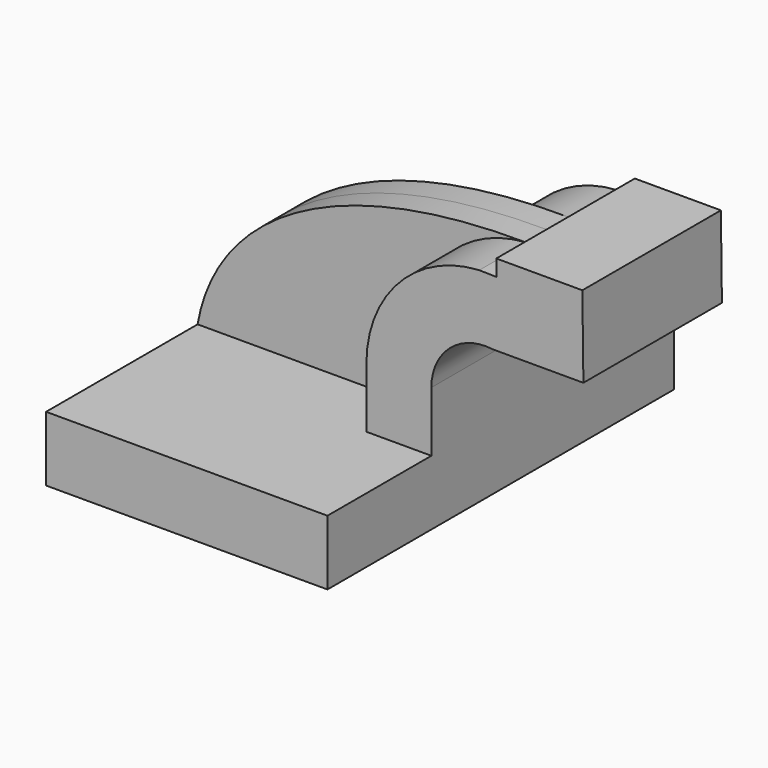
from build123d import *

# Parameters (mm, degrees)
F1_DEPTH = 63.5
F2_DEPTH = 25.4
F3_DEPTH = 7.9375


with BuildPart() as f1:
    # F0 (on Front) → F1 (new body, symmetric)
    with BuildSketch(Plane.XZ):
        Polygon((-41.275, 9.525), (-41.275, -9.525), (41.275, -9.525), (41.275, 9.525), (22.225, 9.525), align=None)
    extrude(amount=F1_DEPTH, both=True)

    # F0 (on Front) → F2 (join, symmetric)
    with BuildSketch(Plane.XZ):
        with BuildLine():
            Line((22.225, 9.525), (41.275, 9.525))
            Line((41.275, 9.525), (41.275, 27.144268))
            ThreePointArc((41.275, 27.144268), (46.70633, 39.100244), (59.283867, 42.8752))
            Line((59.283867, 42.8752), (60.325, 42.8752))
            Line((60.325, 42.8752), (60.325, 61.9252))
            Line((60.325, 61.9252), (60.318968, 61.9252))
            add(Edge.make_bspline(
                [(60.318968, 61.9252), (58.637809, 61.975807), (56.975817, 62.007969), (55.33311, 62.021976)],
                knots=[0, 0, 0, 0, 3.185994, 3.185994, 3.185994, 3.185994], degree=3))
            ThreePointArc((55.33311, 62.021976), (31.820072, 51.189025), (22.225, 27.144268))
            Line((22.225, 27.144268), (22.225, 9.525))
        make_face()
        Polygon((60.325, 66.675), (60.325, 61.9252), (60.325, 42.8752), (85.883424, 42.8752), (85.578844, 66.675), align=None)
    extrude(amount=F2_DEPTH, both=True)

    # F0 (on Front) → F3 (join, symmetric)
    with BuildSketch(Plane.XZ):
        with BuildLine():
            add(Edge.make_bspline(
                [(55.33311, 62.021976), (-1.963501, 62.510512), (-35.799797, 40.911554), (-41.275, 9.525)],
                knots=[3.185994, 3.185994, 3.185994, 3.185994, 114.311484, 114.311484, 114.311484, 114.311484], degree=3))
            Line((-41.275, 9.525), (22.225, 9.525))
            Line((22.225, 9.525), (22.225, 27.144268))
            ThreePointArc((22.225, 27.144268), (31.820072, 51.189025), (55.33311, 62.021976))
        make_face()
    extrude(amount=F3_DEPTH, both=True)


solid = f1.part
